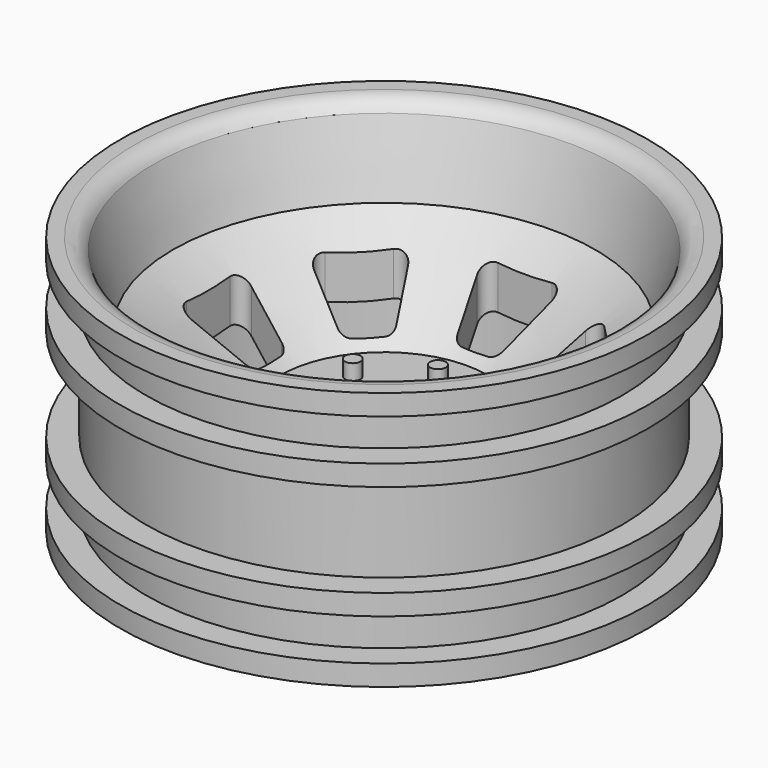
from build123d import *

# Parameters (mm, degrees)
F4_DEPTH   = 50.001
F5_R       = 0.75
F6_DEPTH   = 1.5
F8_DEPTH   = 6
F9_R       = 2.25
F10_DEPTH  = 25
F10_FACE_R = 2.25
F11_DEPTH  = 44.001
F12_R      = 5
F12_R_2    = 2.25
F13_DEPTH  = 2


with BuildPart() as f1:
    # F0 (on Front) → F1 (revolve)
    with BuildSketch(Plane.XZ):
        with BuildLine():
            Line((0, 10), (0, 0))
            Line((0, 0), (10, 0))
            Line((10, 0), (10, 6.548466))
            Line((10, 6.548466), (11.088264, 6.548466))
            Line((11.088264, 6.548466), (20.404611, 13.071842))
            Line((20.404611, 13.071842), (20.404611, 0))
            Line((20.404611, 0), (25.5, 0))
            Line((25.5, 0), (25.5, 2))
            Line((25.5, 2), (23, 2))
            Line((23, 2), (23, 6))
            Line((23, 6), (25.5, 6))
            Line((25.5, 6), (25.5, 8))
            Line((25.5, 8), (23, 8))
            Line((23, 8), (23, 17))
            Line((23, 17), (25.5, 17))
            Line((25.5, 17), (25.5, 19))
            Line((25.5, 19), (23, 19))
            Line((23, 19), (23, 22.723929))
            ThreePointArc((23, 22.723929), (23.080859, 22.919141), (23.276071, 23))
            Line((23.276071, 23), (25.5, 23))
            Line((25.5, 23), (25.5, 25))
            Line((25.5, 25), (24.115082, 25))
            ThreePointArc((24.115082, 25), (23.068837, 24.704515), (22.331742, 23.905373))
            Line((22.331742, 23.905373), (20.404611, 17.285387))
            Line((20.404611, 17.285387), (10, 10))
            Line((10, 10), (0, 10))
        make_face()
    revolve(axis=Axis((0, 0, 5), (0, 0, -1)))

    # F3 (on offset) → F4 (cut, through all)
    with BuildSketch(Plane.XY.offset(50)):
        with BuildLine():
            Line((2.612574, 17), (-2.612574, 17))
            ThreePointArc((-2.612574, 17), (-3.423816, 16.58471), (-3.561257, 15.683772))
            Line((-3.561257, 15.683772), (-2.227924, 11.683772))
            ThreePointArc((-2.227924, 11.683772), (-1.863951, 11.188758), (-1.279241, 11))
            Line((-1.279241, 11), (1.279241, 11))
            ThreePointArc((1.279241, 11), (1.863951, 11.188758), (2.227924, 11.683772))
            Line((2.227924, 11.683772), (3.561257, 15.683772))
            ThreePointArc((3.561257, 15.683772), (3.423816, 16.58471), (2.612574, 17))
        make_face()
        with BuildLine():
            Line((-13.608291, 8.571912), (-9.837055, 6.686294))
            ThreePointArc((-9.837055, 6.686294), (-9.229659, 6.593634), (-8.682734, 6.873615))
            Line((-8.682734, 6.873615), (-6.873615, 8.682734))
            ThreePointArc((-6.873615, 8.682734), (-6.593634, 9.229659), (-6.686294, 9.837055))
            Line((-6.686294, 9.837055), (-8.571912, 13.608291))
            ThreePointArc((-8.571912, 13.608291), (-9.306157, 14.148165), (-10.173446, 13.868184))
            Line((-10.173446, 13.868184), (-13.868184, 10.173446))
            ThreePointArc((-13.868184, 10.173446), (-14.148165, 9.306157), (-13.608291, 8.571912))
        make_face()
        with BuildLine():
            Line((-15.683772, -3.561257), (-11.683772, -2.227924))
            ThreePointArc((-11.683772, -2.227924), (-11.188758, -1.863951), (-11, -1.279241))
            Line((-11, -1.279241), (-11, 1.279241))
            ThreePointArc((-11, 1.279241), (-11.188758, 1.863951), (-11.683772, 2.227924))
            Line((-11.683772, 2.227924), (-15.683772, 3.561257))
            ThreePointArc((-15.683772, 3.561257), (-16.58471, 3.423816), (-17, 2.612574))
            Line((-17, 2.612574), (-17, -2.612574))
            ThreePointArc((-17, -2.612574), (-16.58471, -3.423816), (-15.683772, -3.561257))
        make_face()
        with BuildLine():
            Line((-8.571912, -13.608291), (-6.686294, -9.837055))
            ThreePointArc((-6.686294, -9.837055), (-6.593634, -9.229659), (-6.873615, -8.682734))
            Line((-6.873615, -8.682734), (-8.682734, -6.873615))
            ThreePointArc((-8.682734, -6.873615), (-9.229659, -6.593634), (-9.837055, -6.686294))
            Line((-9.837055, -6.686294), (-13.608291, -8.571912))
            ThreePointArc((-13.608291, -8.571912), (-14.148165, -9.306157), (-13.868184, -10.173446))
            Line((-13.868184, -10.173446), (-10.173446, -13.868184))
            ThreePointArc((-10.173446, -13.868184), (-9.306157, -14.148165), (-8.571912, -13.608291))
        make_face()
        with BuildLine():
            Line((3.561257, -15.683772), (2.227924, -11.683772))
            ThreePointArc((2.227924, -11.683772), (1.863951, -11.188758), (1.279241, -11))
            Line((1.279241, -11), (-1.279241, -11))
            ThreePointArc((-1.279241, -11), (-1.863951, -11.188758), (-2.227924, -11.683772))
            Line((-2.227924, -11.683772), (-3.561257, -15.683772))
            ThreePointArc((-3.561257, -15.683772), (-3.423816, -16.58471), (-2.612574, -17))
            Line((-2.612574, -17), (2.612574, -17))
            ThreePointArc((2.612574, -17), (3.423816, -16.58471), (3.561257, -15.683772))
        make_face()
        with BuildLine():
            Line((13.608291, -8.571912), (9.837055, -6.686294))
            ThreePointArc((9.837055, -6.686294), (9.229659, -6.593634), (8.682734, -6.873615))
            Line((8.682734, -6.873615), (6.873615, -8.682734))
            ThreePointArc((6.873615, -8.682734), (6.593634, -9.229659), (6.686294, -9.837055))
            Line((6.686294, -9.837055), (8.571912, -13.608291))
            ThreePointArc((8.571912, -13.608291), (9.306157, -14.148165), (10.173446, -13.868184))
            Line((10.173446, -13.868184), (13.868184, -10.173446))
            ThreePointArc((13.868184, -10.173446), (14.148165, -9.306157), (13.608291, -8.571912))
        make_face()
        with BuildLine():
            Line((15.683772, 3.561257), (11.683772, 2.227924))
            ThreePointArc((11.683772, 2.227924), (11.188758, 1.863951), (11, 1.279241))
            Line((11, 1.279241), (11, -1.279241))
            ThreePointArc((11, -1.279241), (11.188758, -1.863951), (11.683772, -2.227924))
            Line((11.683772, -2.227924), (15.683772, -3.561257))
            ThreePointArc((15.683772, -3.561257), (16.58471, -3.423816), (17, -2.612574))
            Line((17, -2.612574), (17, 2.612574))
            ThreePointArc((17, 2.612574), (16.58471, 3.423816), (15.683772, 3.561257))
        make_face()
        with BuildLine():
            Line((8.571912, 13.608291), (6.686294, 9.837055))
            ThreePointArc((6.686294, 9.837055), (6.593634, 9.229659), (6.873615, 8.682734))
            Line((6.873615, 8.682734), (8.682734, 6.873615))
            ThreePointArc((8.682734, 6.873615), (9.229659, 6.593634), (9.837055, 6.686294))
            Line((9.837055, 6.686294), (13.608291, 8.571912))
            ThreePointArc((13.608291, 8.571912), (14.148165, 9.306157), (13.868184, 10.173446))
            Line((13.868184, 10.173446), (10.173446, 13.868184))
            ThreePointArc((10.173446, 13.868184), (9.306157, 14.148165), (8.571912, 13.608291))
        make_face()
    extrude(amount=-F4_DEPTH, mode=Mode.SUBTRACT)

    # F5 (on face) → F6 (join)
    with BuildSketch(Plane.XY.offset(10)):
        with Locations((0, 6.5)):
            Circle(F5_R)
        with Locations((-5.629165, 3.25)):
            Circle(F5_R)
        with Locations((-5.629165, -3.25)):
            Circle(F5_R)
        with Locations((0, -6.5)):
            Circle(F5_R)
        with Locations((5.629165, -3.25)):
            Circle(F5_R)
        with Locations((5.629165, 3.25)):
            Circle(F5_R)
    extrude(amount=F6_DEPTH)

    # F7 (on face) → F8 (cut)
    with BuildSketch(Plane(origin=(0, 0, 0), x_dir=(1, 0, 0), z_dir=(0, 0, -1))):
        Polygon((0, -7.274613), (6.3, -3.637307), (6.3, 3.637307), (0, 7.274613), (-6.3, 3.637307), (-6.3, -3.637307), align=None)
    extrude(amount=-F8_DEPTH, mode=Mode.SUBTRACT)

    # F9 (on face) → F10 (join)
    with BuildSketch(Plane(origin=(0, 0, 6), x_dir=(1, 0, 0), z_dir=(0, 0, -1))):
        Circle(F9_R)
    extrude(amount=F10_DEPTH)

    # F10_face (on face) → F11 (cut, through all)
    with BuildSketch(Plane(origin=(0, 0, -19), x_dir=(1, 0, 0), z_dir=(0, 0, -1))):
        Circle(F10_FACE_R)
    extrude(amount=-F11_DEPTH, mode=Mode.SUBTRACT)

    # F12 (on face) → F13 (cut)
    with BuildSketch(Plane.XY.offset(10)):
        Circle(F12_R)
        Circle(F12_R_2, mode=Mode.SUBTRACT)
    extrude(amount=-F13_DEPTH, mode=Mode.SUBTRACT)


solid = f1.part
